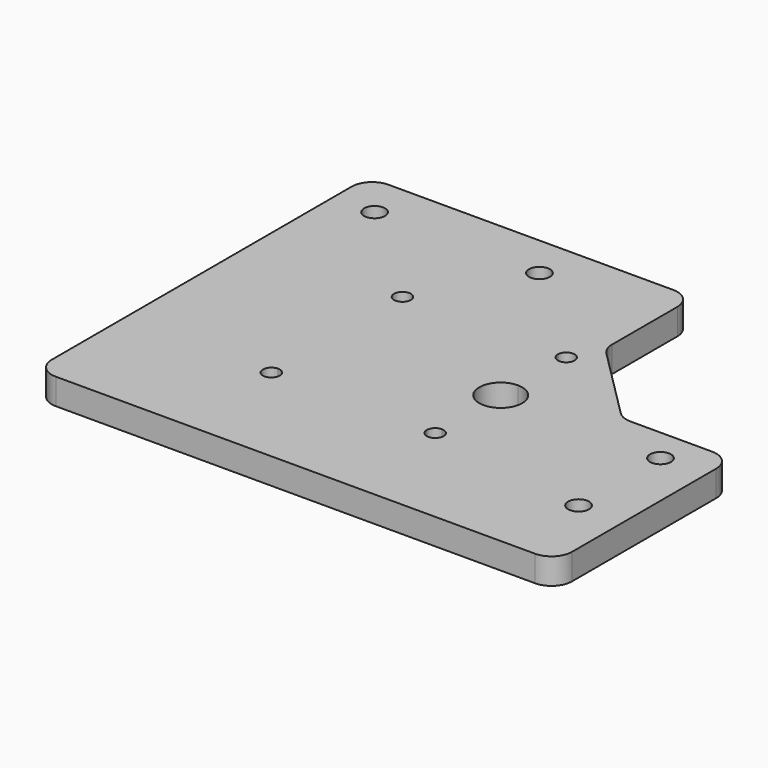
from build123d import *

# Parameters (mm, degrees)
F0_R     = 2.55
F1_DEPTH = 6.35
F2_R     = 5
F3_R     = 5


with BuildPart() as f1:
    # F0 (on Top) → F1 (new body)
    with BuildSketch(Plane.XY):
        Polygon((0, 101.5), (0, 0), (127, 0), (127, 54), (100, 54), (79.5, 74.5), (79.5, 101.5), align=None)
        with BuildLine():
            ThreePointArc((36, 64.95), (34.5504310986, 68.4495689014), (38.05, 67))
            Line((38.05, 67), (73.95, 67))
            ThreePointArc((73.95, 67), (76, 69.05), (78.05, 67))
            ThreePointArc((78.05, 67), (77.4495689014, 65.5504310986), (76, 64.95))
            Line((76, 64.95), (76, 52.25))
            ThreePointArc((76, 52.25), (79.7123106012, 50.7123106012), (81.25, 47))
            ThreePointArc((81.25, 47), (79.7123106012, 43.2876893988), (76, 41.75))
            Line((76, 41.75), (76, 29.05))
            ThreePointArc((76, 29.05), (77.4495689014, 28.4495689014), (78.05, 27))
            ThreePointArc((78.05, 27), (76, 24.95), (73.95, 27))
            Line((73.95, 27), (38.05, 27))
            ThreePointArc((38.05, 27), (34.5504310986, 25.5504310986), (36, 29.05))
            Line((36, 29.05), (36, 64.95))
        make_face(mode=Mode.SUBTRACT)
        with Locations((116, 20.75)):
            Circle(F0_R, mode=Mode.SUBTRACT)
        with Locations((116, 45.75)):
            Circle(F0_R, mode=Mode.SUBTRACT)
        with Locations((10, 91)):
            Circle(F0_R, mode=Mode.SUBTRACT)
        with Locations((50.25, 91)):
            Circle(F0_R, mode=Mode.SUBTRACT)
        with BuildLine():
            Line((73.95, 67), (38.05, 67))
            ThreePointArc((38.05, 67), (37.4495689014, 65.5504310986), (36, 64.95))
            Line((36, 64.95), (36, 29.05))
            ThreePointArc((36, 29.05), (37.4495689014, 28.4495689014), (38.05, 27))
            Line((38.05, 27), (73.95, 27))
            ThreePointArc((73.95, 27), (74.5504310986, 28.4495689014), (76, 29.05))
            Line((76, 29.05), (76, 41.75))
            ThreePointArc((76, 41.75), (70.75, 47), (76, 52.25))
            Line((76, 52.25), (76, 64.95))
            ThreePointArc((76, 64.95), (74.5504310986, 65.5504310986), (73.95, 67))
        make_face()
    extrude(amount=F1_DEPTH)

    # F2
    f2_edges = [f1.edges().sort_by_distance(p)[0] for p in [
        (79.5, 74.5, 3.175),
        (100, 54, 3.175),
    ]]
    fillet(f2_edges, radius=F2_R)

    # F3
    f3_edges = [f1.edges().sort_by_distance(p)[0] for p in [
        (0, 101.5, 3.175),
        (79.5, 101.5, 3.175),
        (127, 54, 3.175),
        (127, 0, 3.175),
        (0, 0, 3.175),
    ]]
    fillet(f3_edges, radius=F3_R)


solid = f1.part
